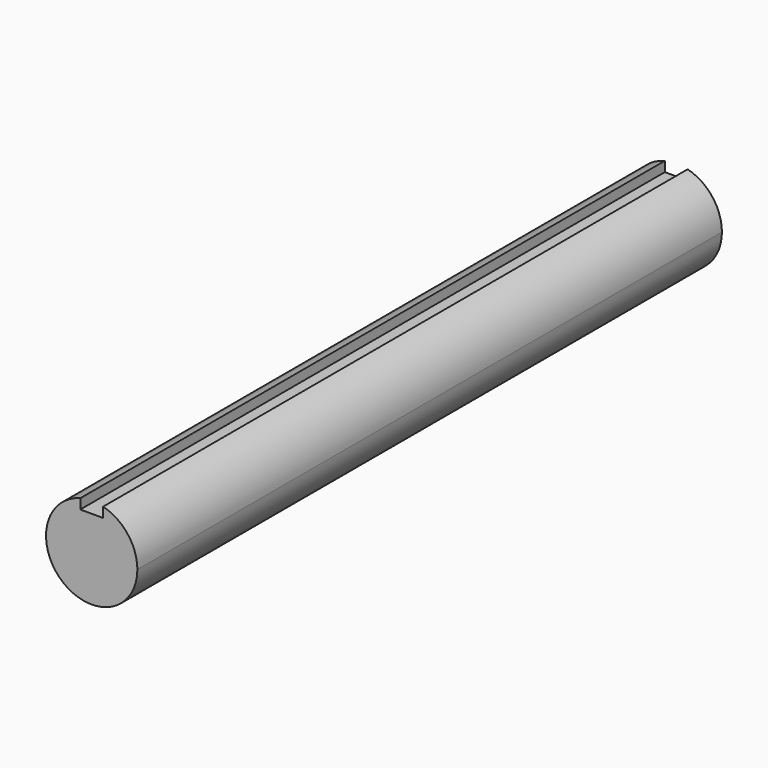
from build123d import *

# Parameters (mm, degrees)
F1_DEPTH = 76.2


with BuildPart() as f1:
    # F0 (on Front) → F1 (new body)
    with BuildSketch(Plane.XZ):
        with BuildLine():
            ThreePointArc((-1.190625, 4.611271), (-2.916424, -3.765087), (4.7625, 0))
            ThreePointArc((4.7625, 0), (3.765087, 2.916424), (1.190625, 4.611271))
            Line((1.190625, 4.611271), (1.190625, 3.571875))
            Line((1.190625, 3.571875), (0, 3.571875))
            Line((0, 3.571875), (-1.190625, 3.571875))
            Line((-1.190625, 3.571875), (-1.190625, 4.611271))
        make_face()
    extrude(amount=-F1_DEPTH)


solid = f1.part
